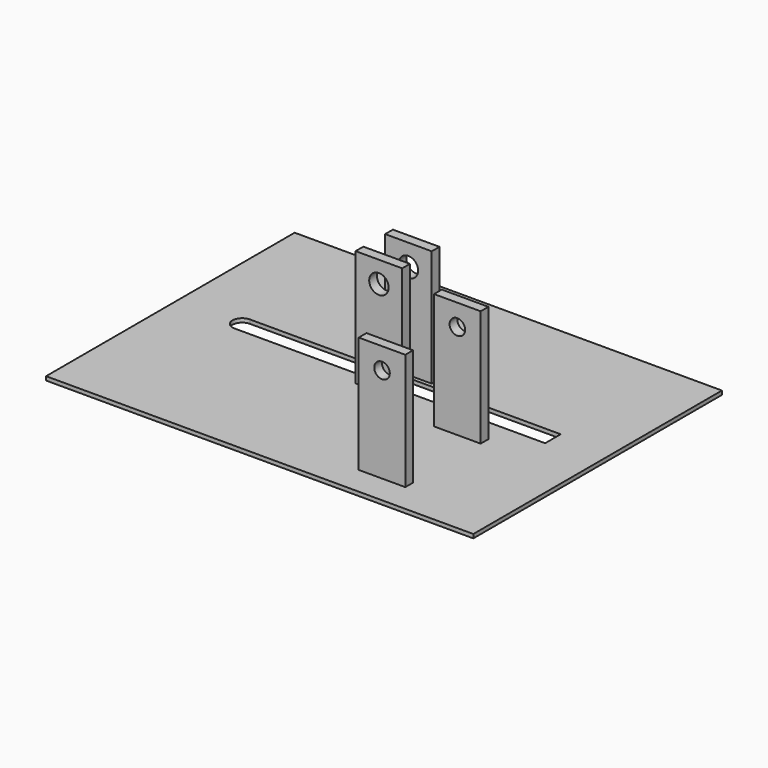
from build123d import *

# Parameters (mm, degrees)
F0_W      = 220
F0_H      = 160
F1_DEPTH  = 2
F3_DEPTH  = 25
F4_W      = 24
F4_H      = 5
F5_DEPTH  = 60
F6_R      = 5
F7_DEPTH  = 25
F8_W      = 24
F8_H      = 5
F9_DEPTH  = 60
F10_R     = 4
F11_DEPTH = 25
F12_DEPTH = 100


with BuildPart() as f1:
    # F0 (on Top) → F1 (new body)
    with BuildSketch(Plane.XY):
        with Locations((-70.886021, -4.76821)):
            Rectangle(F0_W, F0_H)
    extrude(amount=-F1_DEPTH)

    # F2 (on face) → F3 (cut)
    with BuildSketch(Plane.XY):
        with BuildLine():
            Line((12.277737, -5), (12.277737, 5))
            Line((12.277737, 5), (-147.722263, 5))
            ThreePointArc((-147.722263, 5), (-152.722263, 0), (-147.722263, -5))
            Line((-147.722263, -5), (12.277737, -5))
        make_face()
    extrude(amount=-F3_DEPTH, mode=Mode.SUBTRACT)

    # F4 (on face) → F5 (join)
    with BuildSketch(Plane.XY):
        with Locations((-67.722263, -9.5)):
            Rectangle(F4_W, F4_H)
        with Locations((-67.722263, 9.5)):
            Rectangle(F4_W, F4_H)
    extrude(amount=F5_DEPTH)

    # F6 (on face) → F7 (cut)
    with BuildSketch(Plane.XZ.offset(12)):
        with Locations((-67.722263, 49)):
            Circle(F6_R)
    extrude(amount=-F7_DEPTH, mode=Mode.SUBTRACT)

    # F8 (on face) → F9 (join)
    with BuildSketch(Plane.XY):
        with Locations((-19.722263, -19)):
            Rectangle(F8_W, F8_H)
        with Locations((-19.722263, -67.5)):
            Rectangle(F8_W, F8_H)
    extrude(amount=F9_DEPTH)

    # F10 (on face) → F11 (cut)
    with BuildSketch(Plane.XZ.offset(21.5)):
        with Locations((-19.722263, 49)):
            Circle(F10_R)
    extrude(amount=-F11_DEPTH, mode=Mode.SUBTRACT)

    # F10 (on face) → F12 (cut)
    with BuildSketch(Plane.XZ.offset(21.5)):
        with Locations((-19.722263, 49)):
            Circle(F10_R)
    extrude(amount=F12_DEPTH, mode=Mode.SUBTRACT)


solid = f1.part
